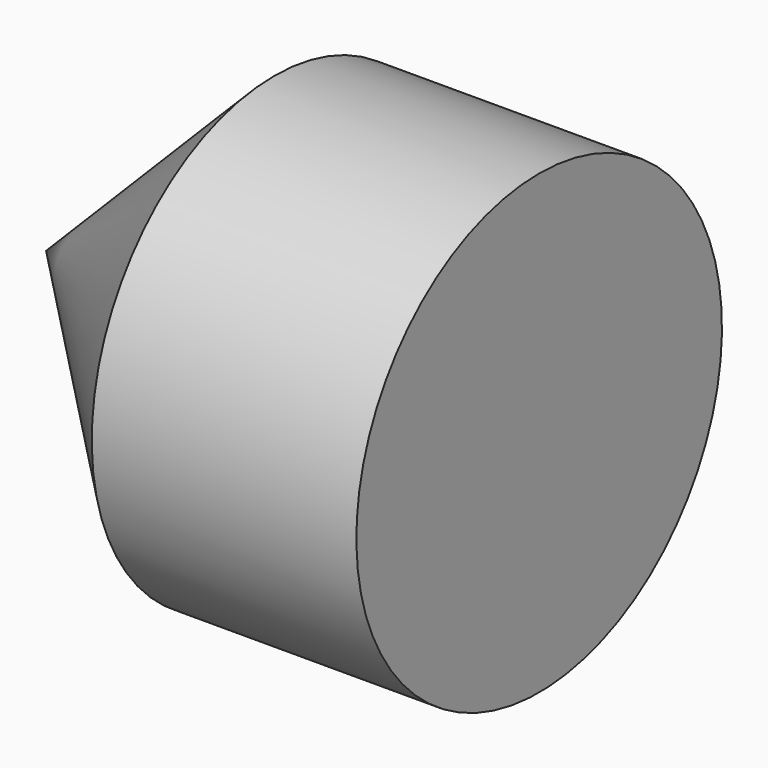
from build123d import *

# Parameters (mm, degrees)
F0_W = 11
F0_H = 9.5


with BuildPart() as f1:
    # F0 (on Front) → F1 (revolve)
    with BuildSketch(Plane.XZ):
        Polygon((-9.5, 0), (0, 0), (0, 9.5), align=None)
        with Locations((5.5, 4.75)):
            Rectangle(F0_W, F0_H)
    revolve(axis=Axis((2.937831, 0, 0), (1, 0, 0)))


solid = f1.part
